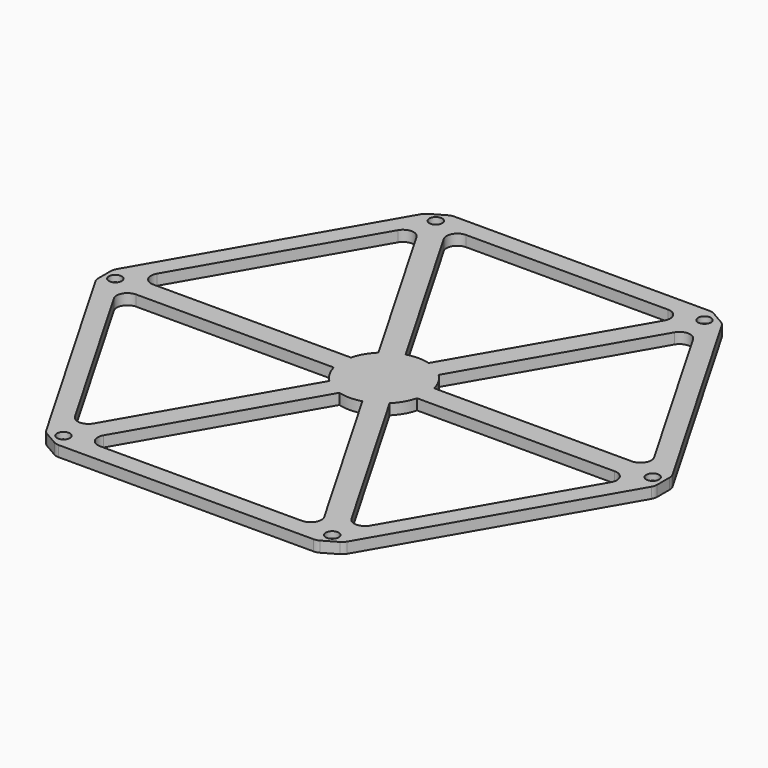
from build123d import *

# Parameters (mm, degrees)
F0_R      = 3
F1_DEPTH  = 5
F2_DEPTH  = 5
F3_R      = 5
F4_R      = 5
F5_DEPTH  = 2
F6_DEPTH  = 2
F7_DEPTH  = 2
F8_DEPTH  = 2
F9_DEPTH  = 2
F10_DEPTH = 2
F11_R     = 5


with BuildPart() as f1:
    # F0 (on Top) → F1 (new body)
    with BuildSketch(Plane.XY):
        Polygon((-60.669873, 115.083302), (-65, 112.583302), (-69.330127, 110.083302), (-130, 5), (-130, 0), (-130, -5), (-69.330127, -110.083302), (-65, -112.583302), (-60.669873, -115.083302), (60.669873, -115.083302), (65, -112.583302), (69.330127, -110.083302), (130, -5), (130, 0), (130, 5), (69.330127, 110.083302), (65, 112.583302), (60.669873, 115.083302), align=None)
        with Locations((-62.5, -108.253175)):
            Circle(F0_R, mode=Mode.SUBTRACT)
        with Locations((-125, 0)):
            Circle(F0_R, mode=Mode.SUBTRACT)
        with Locations((62.5, -108.253175)):
            Circle(F0_R, mode=Mode.SUBTRACT)
        Polygon((64.330127, 101.423048), (120, 5), (120, -5), (64.330127, -101.423048), (55.669873, -106.423048), (-55.669873, -106.423048), (-64.330127, -101.423048), (-120, -5), (-120, 5), (-64.330127, 101.423048), (-60, 103.923048), (-55.669873, 106.423048), (55.669873, 106.423048), (60, 103.923048), align=None, mode=Mode.SUBTRACT)
        with Locations((125, 0)):
            Circle(F0_R, mode=Mode.SUBTRACT)
        with Locations((-62.5, 108.253175)):
            Circle(F0_R, mode=Mode.SUBTRACT)
        with Locations((62.5, 108.253175)):
            Circle(F0_R, mode=Mode.SUBTRACT)
    extrude(amount=F1_DEPTH)

    # F0 (on Top) → F2 (join)
    with BuildSketch(Plane.XY):
        with BuildLine():
            ThreePointArc((19.364917, -5), (19.840594, -2.520086), (20, 0))
            ThreePointArc((20, 0), (19.840594, 2.520086), (19.364917, 5))
            ThreePointArc((19.364917, 5), (17.320508, 10), (14.012585, 14.27051))
            ThreePointArc((14.012585, 14.27051), (10, 17.320508), (5.352331, 19.27051))
            ThreePointArc((5.352331, 19.27051), (0, 20), (-5.352331, 19.27051))
            ThreePointArc((-5.352331, 19.27051), (-10, 17.320508), (-14.012585, 14.27051))
            ThreePointArc((-14.012585, 14.27051), (-17.320508, 10), (-19.364917, 5))
            ThreePointArc((-19.364917, 5), (-20, 0), (-19.364917, -5))
            ThreePointArc((-19.364917, -5), (-17.320508, -10), (-14.012585, -14.27051))
            ThreePointArc((-14.012585, -14.27051), (-10, -17.320508), (-5.352331, -19.27051))
            ThreePointArc((-5.352331, -19.27051), (0, -20), (5.352331, -19.27051))
            ThreePointArc((5.352331, -19.27051), (10, -17.320508), (14.012585, -14.27051))
            ThreePointArc((14.012585, -14.27051), (17.320508, -10), (19.364917, -5))
        make_face()
        with BuildLine():
            ThreePointArc((-19.364917, -5), (-20, 0), (-19.364917, 5))
            Line((-19.364917, 5), (-120, 5))
            Line((-120, 5), (-120, -5))
            Line((-120, -5), (-19.364917, -5))
        make_face()
        with BuildLine():
            ThreePointArc((-14.012585, 14.27051), (-10, 17.320508), (-5.352331, 19.27051))
            Line((-5.352331, 19.27051), (-55.669873, 106.423048))
            Line((-55.669873, 106.423048), (-60, 103.923048))
            Line((-60, 103.923048), (-64.330127, 101.423048))
            Line((-64.330127, 101.423048), (-14.012585, 14.27051))
        make_face()
        with BuildLine():
            ThreePointArc((5.352331, 19.27051), (10, 17.320508), (14.012585, 14.27051))
            Line((14.012585, 14.27051), (64.330127, 101.423048))
            Line((64.330127, 101.423048), (60, 103.923048))
            Line((60, 103.923048), (55.669873, 106.423048))
            Line((55.669873, 106.423048), (5.352331, 19.27051))
        make_face()
        with BuildLine():
            ThreePointArc((19.364917, 5), (19.840594, 2.520086), (20, 0))
            ThreePointArc((20, 0), (19.840594, -2.520086), (19.364917, -5))
            Line((19.364917, -5), (120, -5))
            Line((120, -5), (120, 5))
            Line((120, 5), (19.364917, 5))
        make_face()
        with BuildLine():
            Line((64.330127, -101.423048), (14.012585, -14.27051))
            ThreePointArc((14.012585, -14.27051), (10, -17.320508), (5.352331, -19.27051))
            Line((5.352331, -19.27051), (55.669873, -106.423048))
            Line((55.669873, -106.423048), (64.330127, -101.423048))
        make_face()
        with BuildLine():
            Line((-55.669873, -106.423048), (-5.352331, -19.27051))
            ThreePointArc((-5.352331, -19.27051), (-10, -17.320508), (-14.012585, -14.27051))
            Line((-14.012585, -14.27051), (-64.330127, -101.423048))
            Line((-64.330127, -101.423048), (-55.669873, -106.423048))
        make_face()
    extrude(amount=F2_DEPTH)

    # F3
    f3_edges = [f1.edges().sort_by_distance(p)[0] for p in [
        (-60.669873, -115.083302, 2.5),
    ]]
    fillet(f3_edges, radius=F3_R)

    # F4
    f4_edges = [f1.edges().sort_by_distance(p)[0] for p in [
        (-69.330127, -110.083302, 2.5),
        (60.669873, -115.083302, 2.5),
        (69.330127, -110.083302, 2.5),
        (130, -5, 2.5),
        (130, 5, 2.5),
        (69.330127, 110.083302, 2.5),
        (60.669873, 115.083302, 2.5),
        (-60.669873, 115.083302, 2.5),
        (-69.330127, 110.083302, 2.5),
        (-130, 5, 2.5),
        (-130, -5, 2.5),
    ]]
    fillet(f4_edges, radius=F4_R)

    # F0 (on Top) → F5 (join)
    with BuildSketch(Plane.XY):
        with Locations((-125, 0)):
            Circle(F0_R)
    extrude(amount=F5_DEPTH)

    # F0 (on Top) → F6 (join)
    with BuildSketch(Plane.XY):
        with Locations((-62.5, 108.253175)):
            Circle(F0_R)
    extrude(amount=F6_DEPTH)

    # F0 (on Top) → F7 (join)
    with BuildSketch(Plane.XY):
        with Locations((62.5, 108.253175)):
            Circle(F0_R)
    extrude(amount=F7_DEPTH)

    # F0 (on Top) → F8 (join)
    with BuildSketch(Plane.XY):
        with Locations((125, 0)):
            Circle(F0_R)
    extrude(amount=F8_DEPTH)

    # F0 (on Top) → F9 (join)
    with BuildSketch(Plane.XY):
        with Locations((62.5, -108.253175)):
            Circle(F0_R)
    extrude(amount=F9_DEPTH)

    # F0 (on Top) → F10 (join)
    with BuildSketch(Plane.XY):
        with Locations((-62.5, -108.253175)):
            Circle(F0_R)
    extrude(amount=F10_DEPTH)

    # F11
    f11_edges = [f1.edges().sort_by_distance(p)[0] for p in [
        (-64.330127, -101.423048, 2.5),
        (-120, -5, 2.5),
        (-120, 5, 2.5),
        (-64.330127, 101.423048, 2.5),
        (-55.669873, 106.423048, 2.5),
        (55.669873, 106.423048, 2.5),
        (64.330127, 101.423048, 2.5),
        (120, 5, 2.5),
        (120, -5, 2.5),
        (64.330127, -101.423048, 2.5),
        (55.669873, -106.423048, 2.5),
        (-55.669873, -106.423048, 2.5),
    ]]
    fillet(f11_edges, radius=F11_R)


solid = f1.part
